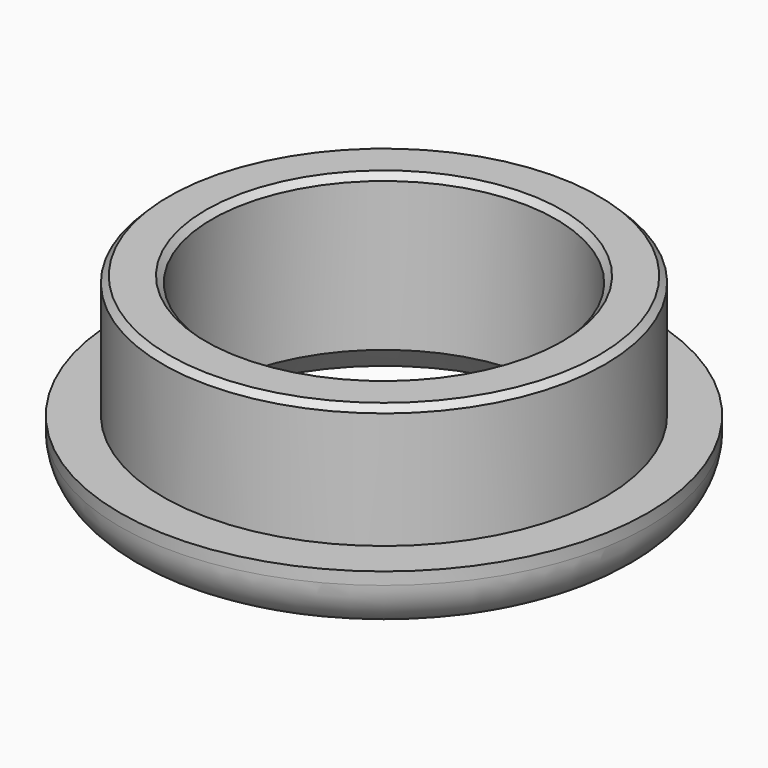
from build123d import *

# Parameters (mm, degrees)
F0_R     = 9
F0_R_2   = 7
F1_DEPTH = 7.5
F0_R_3   = 10.75
F2_DEPTH = 2.5
F3_SIZE  = 0.25
F4_R     = 2
F5_SIZE  = 1.2


with BuildPart() as f1:
    # F0 (on Top) → F1 (new body)
    with BuildSketch(Plane.XY):
        Circle(F0_R)
        Circle(F0_R_2, mode=Mode.SUBTRACT)
    extrude(amount=F1_DEPTH)

    # F0 (on Top) → F2 (join)
    with BuildSketch(Plane.XY):
        Circle(F0_R_3)
        Circle(F0_R, mode=Mode.SUBTRACT)
    extrude(amount=F2_DEPTH)

    # F3
    f3_edges = [f1.edges().sort_by_distance(p)[0] for p in [
        (-9, 0, 7.5),
        (-7, 0, 7.5),
    ]]
    chamfer(f3_edges, length=F3_SIZE)

    # F4
    f4_edges = [f1.edges().sort_by_distance(p)[0] for p in [
        (-10.75, 0, 0),
    ]]
    fillet(f4_edges, radius=F4_R)

    # F5
    f5_edges = [f1.edges().sort_by_distance(p)[0] for p in [
        (-7, 0, 0),
    ]]
    chamfer(f5_edges, length=F5_SIZE)


solid = f1.part
